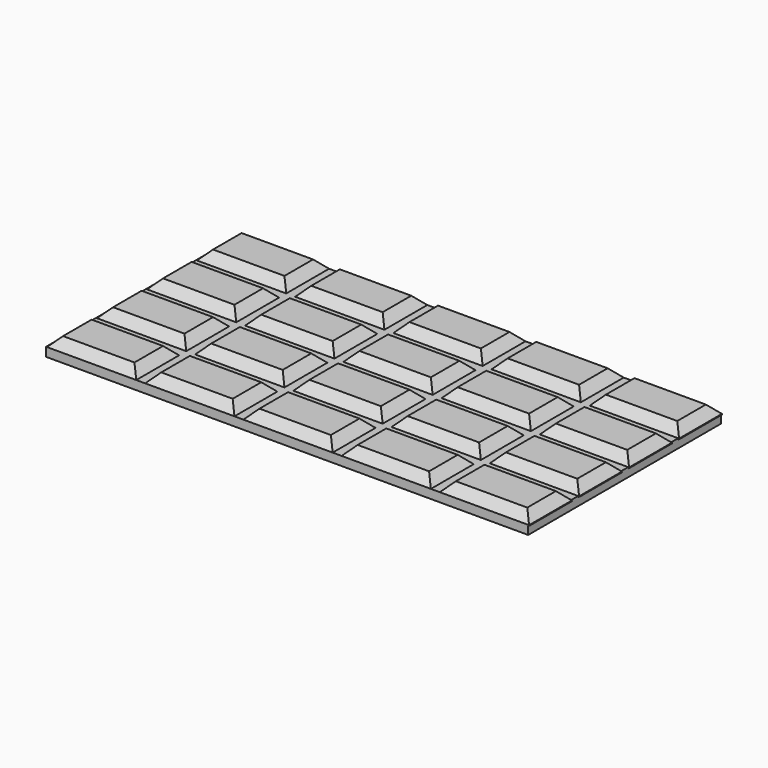
from build123d import *

# Parameters (mm, degrees)
BOX_W         = 54
BOX_H         = 27
BOX_DEPTH     = 1
BOX001_W      = 10
BOX001_H      = 6
BOX001_DEPTH  = 1.1
CHAMFER_SIZE  = 1
ARRAY_X_COUNT = 5
ARRAY_X_PITCH = 11
ARRAY_Y_COUNT = 4
ARRAY_Y_PITCH = 7


with BuildPart() as cub:
    # Box → Box (new body)
    with BuildSketch(Plane.XY):
        with Locations((27, 13.5)):
            Rectangle(BOX_W, BOX_H)
    extrude(amount=BOX_DEPTH)


with BuildPart() as fusion:
    # Box001 → Box001 (new body)
    with BuildSketch(Plane(origin=(-13, 0, 0), x_dir=(1, 0, 0), z_dir=(0, 0, 1))):
        with Locations((5, 3)):
            Rectangle(BOX001_W, BOX001_H)
    extrude(amount=BOX001_DEPTH)

    # Chamfer
    chamfer_edges = [fusion.edges().sort_by_distance(p)[0] for p in [
        (-13, 3, 1.1),
        (-3, 3, 1.1),
        (-8, 0, 1.1),
        (-8, 6, 1.1),
    ]]
    chamfer(chamfer_edges, length=CHAMFER_SIZE)


with BuildPart() as fusion_1:
    # Chamfer placement: moved
    add(fusion.part.moved(Location((13.1, 0, 0.9))))

    # Array X: Fusion ×5


with BuildPart() as fusion_2:
    add(fusion_1.part)
    with Locations(*[(i * ARRAY_X_PITCH, 0, 0) for i in range(1, ARRAY_X_COUNT)]):
        add(fusion_1.part)

    # Array Y: Fusion ×4


with BuildPart() as fusion_3:
    add(fusion_2.part)
    with Locations(*[(0, i * ARRAY_Y_PITCH, 0) for i in range(1, ARRAY_Y_COUNT)]):
        add(fusion_2.part)

    # Fusion: union Cub
    add(cub.part)


solid = fusion_3.part
